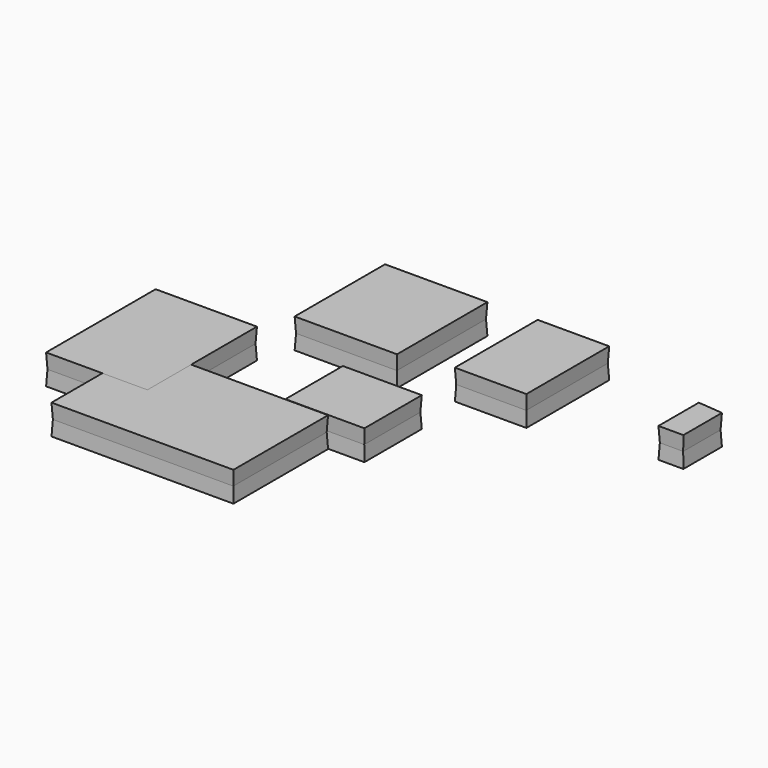
from build123d import *

# Parameters (mm, degrees)
F0_W     = 76.7561085522
F0_H     = 49.6657192707
F6_DEPTH = 6.35
F6_TAPER = -3
F5_W     = 42.4450933933
F5_H     = 57.5952939689
F1_W     = 32.919710385
F1_H     = 29.8570169423
F3_W     = 29.7758458182
F3_H     = 43.3714538813
F2_W     = 9.9339559674
F2_H     = 13.9966998249
F4_W     = 42.8966358304
F4_H     = 47.4050398916


with BuildPart() as f6:
    # F0 (on Top) → F6 (new body, symmetric)
    with BuildSketch(Plane.XY):
        with Locations((-60.5018716305, -59.8246231675)):
            Rectangle(F0_W, F0_H)
    extrude(amount=F6_DEPTH, both=True, taper=F6_TAPER)


with BuildPart() as f6b:
    # F5 (on Top) → F6, piece 2 (new body, symmetric)
    with BuildSketch(Plane.XY):
        with Locations((-101.6065478325, -28.7976469845)):
            Rectangle(F5_W, F5_H)
    extrude(amount=F6_DEPTH, both=True, taper=F6_TAPER)


with BuildPart() as f6c:
    # F1 (on Top) → F6, piece 3 (new body, symmetric)
    with BuildSketch(Plane.XY):
        with Locations((-23.2727164988, -19.2178268129)):
            Rectangle(F1_W, F1_H)
    extrude(amount=F6_DEPTH, both=True, taper=F6_TAPER)


with BuildPart() as f6d:
    # F3 (on Top) → F6, piece 4 (new body, symmetric)
    with BuildSketch(Plane.XY):
        with Locations((4.9447161146, 40.3955616057)):
            Rectangle(F3_W, F3_H)
    extrude(amount=F6_DEPTH, both=True, taper=F6_TAPER)


with BuildPart() as f6e:
    # F2 (on Top) → F6, piece 5 (new body, symmetric)
    with BuildSketch(Plane.XY):
        with Locations((74.0438885987, 35.2175002918)):
            Rectangle(F2_W, F2_H)
        Polygon((69.076910615, 48.9884503186), (69.076910615, 42.2158502042), (79.0108665824, 42.2158502042), (79.0108665824, 48.0854362249), align=None)
    extrude(amount=F6_DEPTH, both=True, taper=F6_TAPER)


with BuildPart() as f6f:
    # F4 (on Top) → F6, piece 6 (new body, symmetric)
    with BuildSketch(Plane.XY):
        with Locations((-53.0656166375, 37.9106448963)):
            Rectangle(F4_W, F4_H)
    extrude(amount=F6_DEPTH, both=True, taper=F6_TAPER)


solid = Compound([f6.part, f6b.part, f6c.part, f6d.part, f6e.part, f6f.part])
